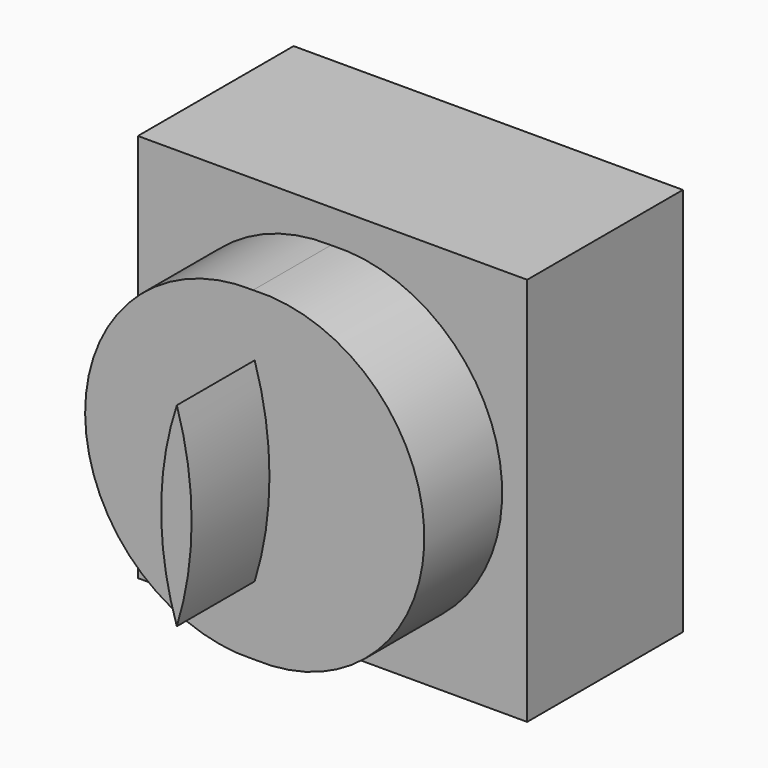
from build123d import *

# Parameters (mm, degrees)
F0_W     = 50.8
F0_H     = 50.8
F1_DEPTH = 25.4
F2_DEPTH = 50.8
F3_DEPTH = 38.1


with BuildPart() as f1:
    # F0 (on Front) → F1 (new body)
    with BuildSketch(Plane.XZ):
        with Locations((-14.014424, 18.376913)):
            Rectangle(F0_W, F0_H)
        with BuildLine():
            ThreePointArc((-14.014424, -2.972908), (-36.140851, 18.121002), (-14.21502, 39.423343))
            ThreePointArc((-14.21502, 39.423343), (8.124533, 18.330441), (-14.014424, -2.972908))
        make_face(mode=Mode.SUBTRACT)
    extrude(amount=F1_DEPTH)


with BuildPart() as f2:
    # F0 (on Front) → F2 (new body)
    with BuildSketch(Plane.XZ):
        with BuildLine():
            ThreePointArc((-14.014424, 31.425135), (-16.059254, 18.725135), (-14.014424, 6.025135))
            ThreePointArc((-14.014424, 6.025135), (-12.083005, 18.725135), (-14.014424, 31.425135))
        make_face()
    extrude(amount=F2_DEPTH)


with BuildPart() as f3:
    # F0 (on Front) → F3 (new body)
    with BuildSketch(Plane.XZ):
        with BuildLine():
            ThreePointArc((-14.014424, -2.972908), (8.124533, 18.330441), (-14.21502, 39.423343))
            ThreePointArc((-14.21502, 39.423343), (-36.140851, 18.121002), (-14.014424, -2.972908))
        make_face()
        with BuildLine():
            ThreePointArc((-14.014424, 31.425135), (-12.083005, 18.725135), (-14.014424, 6.025135))
            ThreePointArc((-14.014424, 6.025135), (-16.059254, 18.725135), (-14.014424, 31.425135))
        make_face(mode=Mode.SUBTRACT)
    extrude(amount=F3_DEPTH)


solid = Compound([f1.part, f2.part, f3.part])
